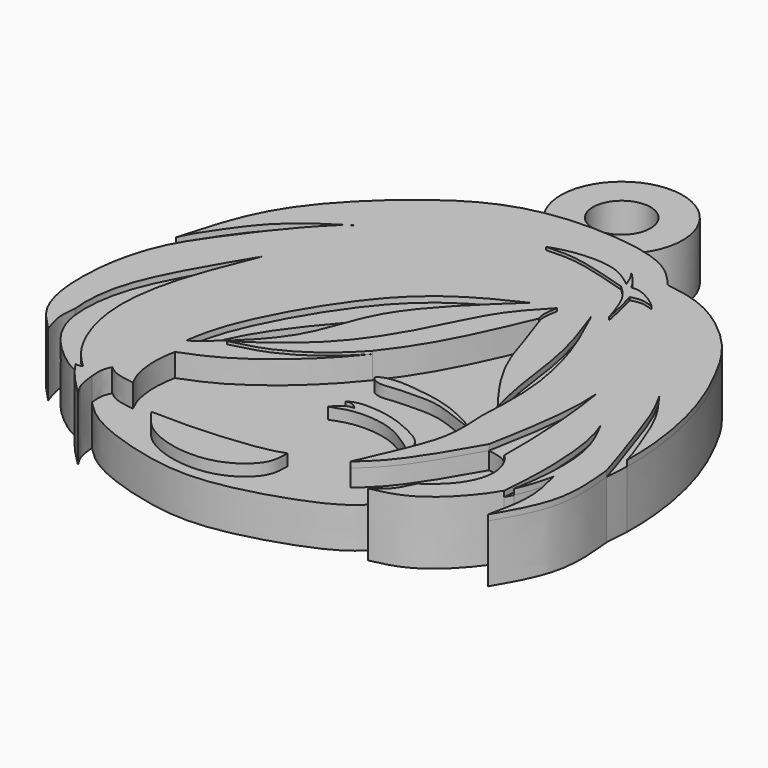
from build123d import *

# Parameters (mm, degrees)
F1_DEPTH  = 3.5
F2_DEPTH  = 5
F3_DEPTH  = 5.75
F4_DEPTH  = 5.5
F5_DEPTH  = 5.75
F6_DEPTH  = 5.5
F7_DEPTH  = 5.5
F8_DEPTH  = 5.5
F9_DEPTH  = 5.5
F11_DEPTH = 4.5
F12_R     = 5.2988832541
F12_R_2   = 2.5
F13_DEPTH = 5


with BuildPart() as f1:
    # F0 (on Top) → F1 (new body)
    with BuildSketch(Plane.XY):
        with BuildLine():
            add(Edge.make_bspline(
                [(-12.1110603213, -10.9907677397), (-12.1413832185, -10.5778725386), (-12.1964164326, -9.8285064787), (-11.9518092827, -9.328371773), (-11.8419788778, -9.1038076207)],
                knots=[0, 0, 0, 0, 0.5509926633, 1, 1, 1, 1], degree=3))
            add(Edge.make_bspline(
                [(-12.1110603213, -10.9907677397), (-11.4748860928, -11.6287734013), (-9.8787594984, -13.2287406102), (-3.1047031725, -15.368989644), (2.4276020196, -15.3486821973), (10.0797579495, -12.8165376875), (11.6481898626, -11.3286238234), (12.1801793575, -10.7554877177)],
                knots=[0, 0, 0, 0, 0.1545510714, 0.3859094209, 0.6040023458, 0.8519726711, 1, 1, 1, 1], degree=3))
            add(Edge.make_bspline(
                [(12.1801793575, -10.7554877177), (12.8132745365, -10.5942263023), (13.6420569676, -10.3477062923), (14.6814271016, -9.7559835883), (14.9906261914, -9.5553366807)],
                knots=[0, 0, 0, 0, 0.1760400927, 0.2497006007, 0.2497006007, 0.2497006007, 0.2497006007], degree=3))
            add(Edge.make_bspline(
                [(14.9906261914, -9.5553366807), (15.6520348931, -9.1261322778), (17.2705069966, -7.807349566), (18.486398897, -5.0831467551), (17.6036991828, -3.1059617964), (17.0047618449, -2.6063665282)],
                knots=[0.2497006007, 0.2497006007, 0.2497006007, 0.2497006007, 0.4072680147, 0.6284827897, 0.8276691525, 0.8276691525, 0.8276691525, 0.8276691525], degree=3))
            add(Edge.make_bspline(
                [(17.0047618449, -2.6063665282), (16.4865768771, -2.1741297289), (15.8331231138, -2.069145763), (15.1746869087, -1.9633669872)],
                knots=[0.8276691525, 0.8276691525, 0.8276691525, 0.8276691525, 1, 1, 1, 1], degree=3))
            add(Edge.make_bspline(
                [(15.1746869087, -1.9633669872), (14.7928351842, -2.6414118966), (13.9104191425, -4.2082968067), (11.5410209813, -7.9679559165), (10.0832064444, -9.2566439256), (9.4371521845, -9.8277470097)],
                knots=[0, 0, 0, 0, 0.2981354866, 0.6889573075, 1, 1, 1, 1], degree=3))
            add(Edge.make_bspline(
                [(12.1801793575, 1.0577354115), (12.2063923463, 0.3896904016), (12.3632008307, -1.5002475705), (11.9735065285, -4.0133734531), (10.565745182, -7.2076516441), (9.7458374849, -9.1060472322), (9.4371521845, -9.8277470097)],
                knots=[0.1587188519, 0.1587188519, 0.1587188519, 0.1587188519, 0.3544281224, 0.5562856519, 0.7906224393, 1, 1, 1, 1], degree=3))
            add(Edge.make_bspline(
                [(12.1801793575, 2.672634786), (12.1711914753, 1.9687710693), (12.1589208066, 1.5995152501), (12.1801793575, 1.0577354115)],
                knots=[0, 0, 0, 0, 0.1587188519, 0.1587188519, 0.1587188519, 0.1587188519], degree=3))
            add(Edge.make_bspline(
                [(6.5886522643, 14.1792679206), (6.9061335426, 13.3116084188), (7.6101751602, 11.3569976928), (8.6905078218, 7.4111331473), (11.6658356551, 3.3504100138), (12.1176316755, 2.8334731505), (12.1801793575, 2.672634786)],
                knots=[0, 0, 0, 0, 0.2478629666, 0.5528856131, 0.8757653389, 1, 1, 1, 1], degree=3))
            add(Edge.make_bspline(
                [(0.7334991878, 3.4119689193), (1.4357383116, 4.2942213089), (3.7857270464, 7.6016154236), (5.4177708345, 11.4315488193), (6.5886522643, 14.1792679206)],
                knots=[0.5844475833, 0.5844475833, 0.5844475833, 0.5844475833, 0.7018691463, 1, 1, 1, 1], degree=3))
            add(Edge.make_bspline(
                [(-9.9287470803, -4.695055075), (-9.0037214767, -4.3369176452), (-6.8364319719, -3.497819257), (-2.8805919766, -0.6357859083), (-0.2637850626, 2.1590389937), (0.7334991878, 3.4119689193)],
                knots=[0, 0, 0, 0, 0.1782758104, 0.4176914578, 0.5844475833, 0.5844475833, 0.5844475833, 0.5844475833], degree=3))
            add(Edge.make_bspline(
                [(-9.3256626278, -9.9980356172), (-9.5138960661, -9.6293840696), (-9.9452786632, -8.7845295984), (-10.2430779945, -6.5362118142), (-10.0305837355, -5.2915514283), (-9.9287470803, -4.695055075)],
                knots=[0, 0, 0, 0, 0.2873137659, 0.6584492087, 1, 1, 1, 1], degree=3))
            add(Edge.make_bspline(
                [(-11.8419788778, -9.1038076207), (-11.6040014961, -9.2942872341), (-11.0456594333, -9.7411901266), (-9.95275037, -9.9043931998), (-9.3256626278, -9.9980356172)],
                knots=[0, 0, 0, 0, 0.4262214824, 1, 1, 1, 1], degree=3))
        make_face()
    extrude(amount=F1_DEPTH)

    # F0 (on Top) → F2 (join)
    with BuildSketch(Plane.XY):
        with BuildLine():
            add(Edge.make_bspline(
                [(17.0047618449, -2.6063665282), (16.4865768771, -2.1741297289), (15.8331231138, -2.069145763), (15.1746869087, -1.9633669872)],
                knots=[0.8276691525, 0.8276691525, 0.8276691525, 0.8276691525, 1, 1, 1, 1], degree=3))
            add(Edge.make_bspline(
                [(17.0047618449, -2.6063665282), (17.0108378366, -2.0439236612), (17.0265740493, -0.587252726), (16.8591893636, 4.3563893658), (16.4464756225, 7.1125414321), (16.2475418766, 8.4410449489)],
                knots=[0, 0, 0, 0, 0.2457372138, 0.6364348774, 1, 1, 1, 1], degree=3))
            add(Edge.make_bspline(
                [(16.2475418766, 8.4410449489), (16.2928123442, 7.8540502), (16.3825444874, 5.7940518929), (15.8544032894, 1.68400026), (15.3904071437, -0.805809303), (15.1746869087, -1.9633669872)],
                knots=[0.1623808206, 0.1623808206, 0.1623808206, 0.1623808206, 0.3159900028, 0.6819913297, 1, 1, 1, 1], degree=3))
        make_face()
        with BuildLine():
            add(Edge.make_bspline(
                [(15.1746869087, -1.9633669872), (14.7928351842, -2.6414118966), (13.9104191425, -4.2082968067), (11.5410209813, -7.9679559165), (10.0832064444, -9.2566439256), (9.4371521845, -9.8277470097)],
                knots=[0, 0, 0, 0, 0.2981354866, 0.6889573075, 1, 1, 1, 1], degree=3))
            add(Edge.make_bspline(
                [(16.2475418766, 8.4410449489), (16.2928123442, 7.8540502), (16.3825444874, 5.7940518929), (15.8544032894, 1.68400026), (15.3904071437, -0.805809303), (15.1746869087, -1.9633669872)],
                knots=[0.1623808206, 0.1623808206, 0.1623808206, 0.1623808206, 0.3159900028, 0.6819913297, 1, 1, 1, 1], degree=3))
            add(Edge.make_bspline(
                [(16.0620845854, 10.2534424514), (16.1308854437, 9.6575008334), (16.199686302, 9.0615592154), (16.2475418766, 8.4410449489)],
                knots=[0, 0, 0, 0, 0.1623808206, 0.1623808206, 0.1623808206, 0.1623808206], degree=3))
            add(Edge.make_bspline(
                [(16.0620845854, 10.2534424514), (16.660759144, 9.5082343813), (17.7239165703, 8.1848551222), (18.2510073881, 7.14902993), (18.4812881052, 6.6964882426)],
                knots=[0, 0, 0, 0, 0.5631099815, 1, 1, 1, 1], degree=3))
            add(Edge.make_bspline(
                [(18.4812881052, 6.6964882426), (18.7876675531, 6.1372008186), (19.094047001, 5.5779133946), (19.3638299189, 4.9411241701)],
                knots=[0, 0, 0, 0, 0.1774570157, 0.1774570157, 0.1774570157, 0.1774570157], degree=3))
            add(Edge.make_bspline(
                [(19.3638299189, 4.9411241701), (19.9211848209, 3.8933674027), (21.0867769477, 1.6795586118), (21.1105851606, -2.9043532755), (20.7544954422, -5.0353931636), (20.5894114646, -6.0046124247)],
                knots=[0, 0, 0, 0, 0.3294860014, 0.6946361721, 1, 1, 1, 1], degree=3))
            add(Edge.make_bspline(
                [(20.5894114646, -6.0046124247), (21.0957081862, -4.9437955373), (21.3350859407, -3.948240442), (21.5744636953, -2.9526853468)],
                knots=[0.738563719, 0.738563719, 0.738563719, 0.738563719, 1, 1, 1, 1], degree=3))
            add(Edge.make_bspline(
                [(21.5744636953, -2.9526853468), (21.8458587584, -3.9986140094), (22.4155160104, -6.1940144743), (21.8634929446, -8.741327372), (21.5744636953, -10.0750541314)],
                knots=[0, 0, 0, 0, 0.4764181657, 1, 1, 1, 1], degree=3))
            add(Edge.make_bspline(
                [(23.8157566637, 0), (23.8378141075, -0.3887315979), (23.868909482, -0.628953591), (24.3805414343, -5.2584971018), (22.5897832375, -8.3347298927), (21.5744636953, -10.0750541314)],
                knots=[0, 0, 0, 0, 0.1634212137, 0.5423165985, 1, 1, 1, 1], degree=3))
            add(Edge.make_bspline(
                [(23.8157566637, 0), (23.4544931667, 1.2921492355), (22.5038133563, 3.9277402407), (21.0862566432, 8.4321982426), (20.1828071321, 10.0516246715), (19.8062434793, 10.7384677976)],
                knots=[0, 0, 0, 0, 0.3523820445, 0.7248126786, 1, 1, 1, 1], degree=3))
            add(Edge.make_bspline(
                [(19.8062434793, 10.7384677976), (20.4092055867, 9.9295494926), (21.7212377167, 8.2021313272), (23.1435840611, 4.3845938491), (23.7663733127, 2.7548679951), (23.9451955364, 2.0321354693)],
                knots=[0, 0, 0, 0, 0.3325623545, 0.70801832, 1, 1, 1, 1], degree=3))
            add(Edge.make_bspline(
                [(16.0620845854, 21.4767409042), (16.8439314772, 20.8853195654), (18.9689674149, 18.9434902255), (20.9730007618, 15.3369882997), (23.0429388934, 10.6887968177), (24.0238504554, 5.2712655107), (23.9451955364, 2.0321354693)],
                knots=[0.2590937562, 0.2590937562, 0.2590937562, 0.2590937562, 0.3577727526, 0.5412328409, 0.7313859928, 0.9542462456, 0.9542462456, 0.9542462456, 0.9542462456], degree=3))
            Line((16.0620845854, 21.4767409042), (11.7352876339, 9.3485459795))
            add(Edge.make_bspline(
                [(11.7352876339, 9.3485459795), (11.937309989, 8.4465658281), (12.4116932102, 5.6169869461), (12.2735935164, 2.897360307), (12.1801793575, 1.0577354115)],
                knots=[0.5046583678, 0.5046583678, 0.5046583678, 0.5046583678, 0.664938273, 1, 1, 1, 1], degree=3))
            add(Edge.make_bspline(
                [(12.1801793575, 1.0577354115), (12.2063923463, 0.3896904016), (12.3632008307, -1.5002475705), (11.9735065285, -4.0133734531), (10.565745182, -7.2076516441), (9.7458374849, -9.1060472322), (9.4371521845, -9.8277470097)],
                knots=[0.1587188519, 0.1587188519, 0.1587188519, 0.1587188519, 0.3544281224, 0.5562856519, 0.7906224393, 1, 1, 1, 1], degree=3))
        make_face()
        with BuildLine():
            add(Edge.make_bspline(
                [(19.3638299189, 4.9411241701), (19.527492868, 4.5548180126), (20.1999450117, 2.6975468748), (20.6072947647, -2.0396244226), (20.3621906046, -5.1691579441), (20.2454291284, -6.6599892452)],
                knots=[0.1774570157, 0.1774570157, 0.1774570157, 0.1774570157, 0.2851107498, 0.6594446861, 1, 1, 1, 1], degree=3))
            add(Edge.make_bspline(
                [(20.2454291284, -6.6599892452), (20.372606898, -6.4384698959), (20.4865209374, -6.2201935337), (20.5894114646, -6.0046124247)],
                knots=[0.6854341694, 0.6854341694, 0.6854341694, 0.6854341694, 0.738563719, 0.738563719, 0.738563719, 0.738563719], degree=3))
            add(Edge.make_bspline(
                [(19.3638299189, 4.9411241701), (19.9211848209, 3.8933674027), (21.0867769477, 1.6795586118), (21.1105851606, -2.9043532755), (20.7544954422, -5.0353931636), (20.5894114646, -6.0046124247)],
                knots=[0, 0, 0, 0, 0.3294860014, 0.6946361721, 1, 1, 1, 1], degree=3))
        make_face()
        with BuildLine():
            add(Edge.make_bspline(
                [(23.8157566637, 0), (23.4544931667, 1.2921492355), (22.5038133563, 3.9277402407), (21.0862566432, 8.4321982426), (20.1828071321, 10.0516246715), (19.8062434793, 10.7384677976)],
                knots=[0, 0, 0, 0, 0.3523820445, 0.7248126786, 1, 1, 1, 1], degree=3))
            add(Edge.make_bspline(
                [(23.9451955364, 2.0321354693), (23.9290474894, 1.3671341587), (23.8872748772, 0.6888199096), (23.8157566637, 0)],
                knots=[0.9542462456, 0.9542462456, 0.9542462456, 0.9542462456, 1, 1, 1, 1], degree=3))
            add(Edge.make_bspline(
                [(19.8062434793, 10.7384677976), (20.4092055867, 9.9295494926), (21.7212377167, 8.2021313272), (23.1435840611, 4.3845938491), (23.7663733127, 2.7548679951), (23.9451955364, 2.0321354693)],
                knots=[0, 0, 0, 0, 0.3325623545, 0.70801832, 1, 1, 1, 1], degree=3))
        make_face()
        with BuildLine():
            add(Edge.make_bspline(
                [(12.1801793575, 2.672634786), (12.1711914753, 1.9687710693), (12.1589208066, 1.5995152501), (12.1801793575, 1.0577354115)],
                knots=[0, 0, 0, 0, 0.1587188519, 0.1587188519, 0.1587188519, 0.1587188519], degree=3))
            add(Edge.make_bspline(
                [(11.7352876339, 9.3485459795), (11.937309989, 8.4465658281), (12.4116932102, 5.6169869461), (12.2735935164, 2.897360307), (12.1801793575, 1.0577354115)],
                knots=[0.5046583678, 0.5046583678, 0.5046583678, 0.5046583678, 0.664938273, 1, 1, 1, 1], degree=3))
            add(Edge.make_bspline(
                [(8.8684875518, 17.0505736023), (9.5764440114, 15.5458266973), (10.6914005156, 13.1760095622), (11.5030918323, 10.3852431517), (11.7352876339, 9.3485459795)],
                knots=[0, 0, 0, 0, 0.3204395419, 0.5046583678, 0.5046583678, 0.5046583678, 0.5046583678], degree=3))
            add(Edge.make_bspline(
                [(8.8684875518, 17.0505736023), (9.505908299, 15.2725782024), (10.7632704557, 11.7653435534), (11.2848989472, 6.3851070818), (11.8999511852, 3.8346610228), (12.1801793575, 2.672634786)],
                knots=[0, 0, 0, 0, 0.3588642548, 0.707887742, 1, 1, 1, 1], degree=3))
        make_face()
    extrude(amount=F2_DEPTH)

    # F0 (on Top) → F3 (join)
    with BuildSketch(Plane.XY):
        with BuildLine():
            add(Edge.make_bspline(
                [(-7.863804698, -1.628117403), (-6.8682231415, -1.3858682059), (-4.7885892415, -0.8831156801), (-1.5743725699, 1.0647330539), (-0.0100322797, 2.6357671951), (0.7334991878, 3.4119689193)],
                knots=[0, 0, 0, 0, 0.3217102615, 0.6708465691, 1, 1, 1, 1], degree=3))
            add(Edge.make_bspline(
                [(0.7334991878, 3.4119689193), (1.4357383116, 4.2942213089), (3.7857270464, 7.6016154236), (5.4177708345, 11.4315488193), (6.5886522643, 14.1792679206)],
                knots=[0.5844475833, 0.5844475833, 0.5844475833, 0.5844475833, 0.7018691463, 1, 1, 1, 1], degree=3))
            add(Edge.make_bspline(
                [(6.5886522643, 14.1792679206), (6.5250988378, 14.3603771625), (6.3673559018, 14.8098997948), (6.5059166095, 15.6462056203), (6.5886522643, 16.1455702037)],
                knots=[0, 0, 0, 0, 0.4028923772, 1, 1, 1, 1], degree=3))
            add(Edge.make_bspline(
                [(6.5886522643, 16.1455702037), (5.6709121541, 15.1844291242), (3.726024086, 13.1475650966), (1.6840196073, 8.4861317867), (-1.2676200724, 3.5338215832), (-4.9474442082, 0.2548404837), (-6.9518865173, -1.0393343852), (-7.863804698, -1.628117403)],
                knots=[0, 0, 0, 0, 0.1874955419, 0.3973432546, 0.6225007227, 0.8282572401, 1, 1, 1, 1], degree=3))
        make_face()
    extrude(amount=F3_DEPTH)



with BuildPart() as f1b:
    # F0 (on Top) → F1, piece 2 (new body)
    with BuildSketch(Plane.XY):
        with BuildLine():
            add(Edge.make_bspline(
                [(-2.4347868748, 8.4410449489), (-3.0170345388, 7.8570093687), (-4.4585662631, 6.4115448907), (-8.1363164186, 1.7628610387), (-9.4330025074, -1.3334946475), (-9.4347120909, -2.0176489631), (-9.4371806186, -2.2408591106)],
                knots=[0, 0, 0, 0, 0.2454000528, 0.6071791178, 0.8711346947, 1, 1, 1, 1], degree=3))
            add(Edge.make_bspline(
                [(-2.4347868748, 8.4410449489), (-3.5783986229, 6.4272173174), (-4.1205798917, 2.7021904995), (-7.7939585552, -0.9365343823), (-9.4371806186, -2.2408591106)],
                knots=[0.310687186, 0.310687186, 0.310687186, 0.310687186, 0.5466284922, 0.763095624, 0.763095624, 0.763095624, 0.763095624], degree=3))
        make_face()
    extrude(amount=F1_DEPTH)

    # F0 (on Top) → F2, piece 4 (join)
    with BuildSketch(Plane.XY):
        with BuildLine():
            add(Edge.make_bspline(
                [(4.3650528252, 15.9829384893), (1.8418105471, 14.7825519027), (-3.5969838732, 12.1617755094), (-9.7134737647, 1.3296068446), (-10.2006218406, -1.7949653414), (-10.3816436604, -2.9526853468)],
                knots=[0, 0, 0, 0, 0.3510848723, 0.7594769237, 1, 1, 1, 1], degree=3))
            add(Edge.make_bspline(
                [(-9.4371806186, -2.2408591106), (-9.7584453641, -2.4958663681), (-10.0753370819, -2.7341804511), (-10.3816436604, -2.9526853468)],
                knots=[0.763095624, 0.763095624, 0.763095624, 0.763095624, 0.8054169022, 0.8054169022, 0.8054169022, 0.8054169022], degree=3))
            add(Edge.make_bspline(
                [(-2.4347868748, 8.4410449489), (-3.0170345388, 7.8570093687), (-4.4585662631, 6.4115448907), (-8.1363164186, 1.7628610387), (-9.4330025074, -1.3334946475), (-9.4347120909, -2.0176489631), (-9.4371806186, -2.2408591106)],
                knots=[0, 0, 0, 0, 0.2454000528, 0.6071791178, 0.8711346947, 1, 1, 1, 1], degree=3))
            add(Edge.make_bspline(
                [(2.5421622404, 14.2720882199), (0.4826693164, 12.2971626259), (-1.3577963873, 10.3375567732), (-2.4347868748, 8.4410449489)],
                knots=[0.0884906733, 0.0884906733, 0.0884906733, 0.0884906733, 0.310687186, 0.310687186, 0.310687186, 0.310687186], degree=3))
            add(Edge.make_bspline(
                [(4.3650528252, 15.9829384893), (3.7479149885, 15.412144925), (3.1359355253, 14.8414798618), (2.5421622404, 14.2720882199)],
                knots=[0.0244291017, 0.0244291017, 0.0244291017, 0.0244291017, 0.0884906733, 0.0884906733, 0.0884906733, 0.0884906733], degree=3))
        make_face()
    extrude(amount=F2_DEPTH)


with BuildPart() as f2:
    # F0 (on Top) → F2, piece 2 (new body)
    with BuildSketch(Plane.XY):
        with BuildLine():
            add(Edge.make_bspline(
                [(-14.0736093745, -10.2901859209), (-14.7517814746, -10.113068629), (-17.3584925209, -8.1602841755), (-18.7703443917, -5.8919672925), (-19.1144721245, -4.5416222422), (-19.1880303356, -3.9759030036)],
                knots=[0.0618794608, 0.0618794608, 0.0618794608, 0.0618794608, 0.2150252545, 0.3549494304, 0.4409832243, 0.4409832243, 0.4409832243, 0.4409832243], degree=3))
            add(Edge.make_bspline(
                [(-13.4743060917, -10.2294050157), (-13.63723841, -10.2956344178), (-13.7995899391, -10.3617512069), (-14.0736093745, -10.2901859209)],
                knots=[0, 0, 0, 0, 0.0618794608, 0.0618794608, 0.0618794608, 0.0618794608], degree=3))
            add(Edge.make_bspline(
                [(-14.0533186495, 9.9428910762), (-15.0012926437, 7.6374360407), (-16.8019249708, 3.2583318762), (-17.4529078194, -2.6942227864), (-16.0766430758, -6.9811737253), (-14.655252919, -9.1013213396), (-13.8371354825, -9.8828170885), (-13.4743060917, -10.2294050157)],
                knots=[0, 0, 0, 0, 0.2690731919, 0.511091961, 0.719152316, 0.8754460062, 1, 1, 1, 1], degree=3))
            add(Edge.make_bspline(
                [(-19.1880303356, -3.9759030036), (-19.220753904, -3.7242335854), (-19.333004949, -2.3473863546), (-19.007025826, 1.1471280018), (-16.2653707408, 6.2665632483), (-14.7514087273, 8.781874616), (-14.0533186495, 9.9428910762)],
                knots=[0.4409832243, 0.4409832243, 0.4409832243, 0.4409832243, 0.4792567589, 0.6422112166, 0.834911142, 1, 1, 1, 1], degree=3))
        make_face()
    extrude(amount=F2_DEPTH)


with BuildPart() as f2b:
    # F0 (on Top) → F2, piece 3 (new body)
    with BuildSketch(Plane.XY):
        with BuildLine():
            add(Edge.make_bspline(
                [(-20.3784322143, 8.504793735), (-20.4293889098, 8.3800041862), (-20.8973073931, 7.142464819), (-21.0674799021, 5.6420856137), (-21.2139285542, 4.2943451076)],
                knots=[0.7329733148, 0.7329733148, 0.7329733148, 0.7329733148, 0.7603795739, 1, 1, 1, 1], degree=3))
            add(Edge.make_bspline(
                [(-21.2139285542, 4.2943451076), (-21.0083200652, 5.1495477235), (-20.3033761575, 7.3107377145), (-18.2459673505, 10.3838878551), (-15.0531603022, 14.7074000793), (-12.7069578024, 16.9590461508)],
                knots=[0.5107249816, 0.5107249816, 0.5107249816, 0.5107249816, 0.6061789197, 0.7667394194, 1, 1, 1, 1], degree=3))
            add(Edge.make_bspline(
                [(-12.7069578024, 16.9590461508), (-12.3729041767, 17.1886223972), (-12.0388505509, 17.4181986436), (-11.7047969252, 17.6477748901)],
                knots=[0, 0, 0, 0, 1.216007278, 1.216007278, 1.216007278, 1.216007278], degree=3))
            add(Edge.make_bspline(
                [(-11.7047969252, 17.6477748901), (-13.2754286087, 16.6666733802), (-16.2753141167, 14.7924741299), (-18.845684395, 11.1737261733), (-20.0205569333, 9.3812064315), (-20.3784322143, 8.504793735)],
                knots=[0, 0, 0, 0, 0.2829415573, 0.5404957103, 0.7329733148, 0.7329733148, 0.7329733148, 0.7329733148], degree=3))
        make_face()
    extrude(amount=F2_DEPTH)


with BuildPart() as f4:
    # F0 (on Top) → F4 (new body)
    with BuildSketch(Plane.XY):
        with BuildLine():
            add(Edge.make_bspline(
                [(-14.1588961706, -5.1290872507), (-13.2745345497, -5.1762376458), (-11.6510730644, -5.262793698), (-10.4675567504, -4.8726655059), (-9.9287470803, -4.695055075)],
                knots=[0, 0, 0, 0, 0.5447382823, 1, 1, 1, 1], degree=3))
            add(Edge.make_bspline(
                [(-9.9287470803, -4.695055075), (-9.0037214767, -4.3369176452), (-6.8364319719, -3.497819257), (-2.8805919766, -0.6357859083), (-0.2637850626, 2.1590389937), (0.7334991878, 3.4119689193)],
                knots=[0, 0, 0, 0, 0.1782758104, 0.4176914578, 0.5844475833, 0.5844475833, 0.5844475833, 0.5844475833], degree=3))
            add(Edge.make_bspline(
                [(-7.863804698, -1.628117403), (-6.8682231415, -1.3858682059), (-4.7885892415, -0.8831156801), (-1.5743725699, 1.0647330539), (-0.0100322797, 2.6357671951), (0.7334991878, 3.4119689193)],
                knots=[0, 0, 0, 0, 0.3217102615, 0.6708465691, 1, 1, 1, 1], degree=3))
            add(Edge.make_bspline(
                [(6.5886522643, 16.1455702037), (5.6709121541, 15.1844291242), (3.726024086, 13.1475650966), (1.6840196073, 8.4861317867), (-1.2676200724, 3.5338215832), (-4.9474442082, 0.2548404837), (-6.9518865173, -1.0393343852), (-7.863804698, -1.628117403)],
                knots=[0, 0, 0, 0, 0.1874955419, 0.3973432546, 0.6225007227, 0.8282572401, 1, 1, 1, 1], degree=3))
            add(Edge.make_bspline(
                [(6.5886522643, 16.1455702037), (5.8547247538, 15.9974252259), (4.3810540764, 15.6901008103), (3.1511739362, 14.7556092249), (2.5421622404, 14.2720882199)],
                knots=[0, 0, 0, 0, 0.4960469431, 1, 1, 1, 1], degree=3))
            add(Edge.make_bspline(
                [(2.5421622404, 14.2720882199), (0.4826693164, 12.2971626259), (-1.3577963873, 10.3375567732), (-2.4347868748, 8.4410449489)],
                knots=[0.0884906733, 0.0884906733, 0.0884906733, 0.0884906733, 0.310687186, 0.310687186, 0.310687186, 0.310687186], degree=3))
            add(Edge.make_bspline(
                [(-2.4347868748, 8.4410449489), (-3.5783986229, 6.4272173174), (-4.1205798917, 2.7021904995), (-7.7939585552, -0.9365343823), (-9.4371806186, -2.2408591106)],
                knots=[0.310687186, 0.310687186, 0.310687186, 0.310687186, 0.5466284922, 0.763095624, 0.763095624, 0.763095624, 0.763095624], degree=3))
            add(Edge.make_bspline(
                [(-9.4371806186, -2.2408591106), (-9.7584453641, -2.4958663681), (-10.0753370819, -2.7341804511), (-10.3816436604, -2.9526853468)],
                knots=[0.763095624, 0.763095624, 0.763095624, 0.763095624, 0.8054169022, 0.8054169022, 0.8054169022, 0.8054169022], degree=3))
            add(Edge.make_bspline(
                [(-10.3816436604, -2.9526853468), (-11.7899679253, -3.9573185094), (-12.9745286867, -4.5431973189), (-14.1588961706, -5.1290872507)],
                knots=[0.8054169022, 0.8054169022, 0.8054169022, 0.8054169022, 1, 1, 1, 1], degree=3))
        make_face()
    extrude(amount=F4_DEPTH)


with BuildPart() as f5:
    # F0 (on Top) → F5 (new body)
    with BuildSketch(Plane.XY):
        with BuildLine():
            add(Edge.make_bspline(
                [(8.0643333495, 21.8424219638), (7.966727825, 22.1109495288), (7.768724286, 22.6556872212), (7.425101395, 23.1530465476), (7.2508668527, 23.4052333981)],
                knots=[0, 0, 0, 0, 0.4929483835, 1, 1, 1, 1], degree=3))
            add(Edge.make_bspline(
                [(8.0643333495, 21.8424219638), (7.3862744374, 22.3608217493), (5.9135121851, 23.4868000706), (2.2478316816, 23.3426843446), (0.9156090815, 22.8923611738), (0.4031534682, 22.7063420689)],
                knots=[0, 0, 0, 0, 0.3281095918, 0.7126628863, 0.9681153491, 0.9681153491, 0.9681153491, 0.9681153491], degree=3))
            add(Edge.make_bspline(
                [(0.4031534682, 22.7063420689), (1.2159986703, 22.7429442812), (3.1643819108, 22.829361234), (6.2230715196, 21.8901026101), (8.0055128783, 21.3424526155)],
                knots=[0, 0, 0, 0, 0.4172497148, 1, 1, 1, 1], degree=3))
            add(Edge.make_bspline(
                [(8.0055128783, 21.3424526155), (8.3792705889, 21.0009668859), (9.2684482274, 20.1885649848), (9.8466770219, 18.3497560199), (10.1818526164, 17.2838736326)],
                knots=[0, 0, 0, 0, 0.4203408795, 1, 1, 1, 1], degree=3))
            add(Edge.make_bspline(
                [(10.1818526164, 17.2838736326), (10.0200211012, 18.0918973386), (9.7483026058, 19.448586025), (9.5186861298, 20.1898031353), (9.4258258292, 20.4895623028)],
                knots=[0, 0, 0, 0, 0.5955852025, 1, 1, 1, 1], degree=3))
            add(Edge.make_bspline(
                [(9.4258258292, 20.4895623028), (9.7213872915, 20.5688024579), (10.346882785, 20.7364980685), (11.0667518744, 20.4921351911), (11.4464657381, 20.3632395715)],
                knots=[0, 0, 0, 0, 0.4725237279, 1, 1, 1, 1], degree=3))
            add(Edge.make_bspline(
                [(8.6395246908, 21.6492395848), (8.8765519948, 21.6748855938), (9.4547530999, 21.7374461109), (10.8924407708, 20.8740866193), (11.2867833012, 20.5104771623), (11.4464657381, 20.3632395715)],
                knots=[0, 0, 0, 0, 0.2924947094, 0.7135075216, 1, 1, 1, 1], degree=3))
            add(Edge.make_bspline(
                [(7.2508668527, 23.4052333981), (7.6134034619, 23.0325271648), (8.24556148, 22.382636291), (8.521734339, 21.8685165469), (8.6395246908, 21.6492395848)],
                knots=[0, 0, 0, 0, 0.5734904863, 1, 1, 1, 1], degree=3))
        make_face()
    extrude(amount=F5_DEPTH)


with BuildPart() as f1_1:
    add(f1.part)

    add(f1b.part)  # F6 merges F1b

    add(f2.part)  # F6 merges F2

    add(f2b.part)  # F6 merges F2b

    add(f4.part)  # F6 merges F4
    # F0 (on Top) → F6 (join)
    with BuildSketch(Plane.XY):
        with BuildLine():
            add(Edge.make_bspline(
                [(-12.1110603213, -10.9907677397), (-12.0551590682, -11.5151630106), (-11.9491919189, -12.5092135694), (-11.4789393574, -13.2172684938), (-11.2567609176, -13.5518005118)],
                knots=[0, 0, 0, 0, 0.5275338022, 1, 1, 1, 1], degree=3))
            add(Edge.make_bspline(
                [(-12.1110603213, -10.9907677397), (-12.1413832185, -10.5778725386), (-12.1964164326, -9.8285064787), (-11.9518092827, -9.328371773), (-11.8419788778, -9.1038076207)],
                knots=[0, 0, 0, 0, 0.5509926633, 1, 1, 1, 1], degree=3))
            add(Edge.make_bspline(
                [(-11.8419788778, -9.1038076207), (-11.6040014961, -9.2942872341), (-11.0456594333, -9.7411901266), (-9.95275037, -9.9043931998), (-9.3256626278, -9.9980356172)],
                knots=[0, 0, 0, 0, 0.4262214824, 1, 1, 1, 1], degree=3))
            add(Edge.make_bspline(
                [(-9.3256626278, -9.9980356172), (-9.5138960661, -9.6293840696), (-9.9452786632, -8.7845295984), (-10.2430779945, -6.5362118142), (-10.0305837355, -5.2915514283), (-9.9287470803, -4.695055075)],
                knots=[0, 0, 0, 0, 0.2873137659, 0.6584492087, 1, 1, 1, 1], degree=3))
            add(Edge.make_bspline(
                [(-14.1588961706, -5.1290872507), (-13.2745345497, -5.1762376458), (-11.6510730644, -5.262793698), (-10.4675567504, -4.8726655059), (-9.9287470803, -4.695055075)],
                knots=[0, 0, 0, 0, 0.5447382823, 1, 1, 1, 1], degree=3))
            add(Edge.make_bspline(
                [(-10.3816436604, -2.9526853468), (-11.7899679253, -3.9573185094), (-12.9745286867, -4.5431973189), (-14.1588961706, -5.1290872507)],
                knots=[0.8054169022, 0.8054169022, 0.8054169022, 0.8054169022, 1, 1, 1, 1], degree=3))
            add(Edge.make_bspline(
                [(4.3650528252, 15.9829384893), (1.8418105471, 14.7825519027), (-3.5969838732, 12.1617755094), (-9.7134737647, 1.3296068446), (-10.2006218406, -1.7949653414), (-10.3816436604, -2.9526853468)],
                knots=[0, 0, 0, 0, 0.3510848723, 0.7594769237, 1, 1, 1, 1], degree=3))
            add(Edge.make_bspline(
                [(5.0725936874, 16.635926624), (4.8364789753, 16.4182875526), (4.6003908386, 16.2006036777), (4.3650528252, 15.9829384893)],
                knots=[0, 0, 0, 0, 0.0244291017, 0.0244291017, 0.0244291017, 0.0244291017], degree=3))
            Line((5.0725936874, 16.635926624), (-6.2486008416, 25.9719226992))
            add(Edge.make_bspline(
                [(-20.3784322143, 8.504793735), (-19.8245028004, 10.4718019967), (-18.737029947, 14.4285732475), (-15.3303307576, 19.4705175655), (-9.94823831, 24.1558077946), (-6.9672653811, 25.671917679), (-6.2486008416, 25.9719226992)],
                knots=[0, 0, 0, 0, 0.1472149579, 0.2954523193, 0.4722957299, 0.5285199845, 0.5285199845, 0.5285199845, 0.5285199845], degree=3))
            add(Edge.make_bspline(
                [(-11.7047969252, 17.6477748901), (-13.2754286087, 16.6666733802), (-16.2753141167, 14.7924741299), (-18.845684395, 11.1737261733), (-20.0205569333, 9.3812064315), (-20.3784322143, 8.504793735)],
                knots=[0, 0, 0, 0, 0.2829415573, 0.5404957103, 0.7329733148, 0.7329733148, 0.7329733148, 0.7329733148], degree=3))
            add(Edge.make_bspline(
                [(-12.7069578024, 16.9590461508), (-12.3729041767, 17.1886223972), (-12.0388505509, 17.4181986436), (-11.7047969252, 17.6477748901)],
                knots=[0, 0, 0, 0, 1.216007278, 1.216007278, 1.216007278, 1.216007278], degree=3))
            add(Edge.make_bspline(
                [(-21.2139285542, 4.2943451076), (-21.0083200652, 5.1495477235), (-20.3033761575, 7.3107377145), (-18.2459673505, 10.3838878551), (-15.0531603022, 14.7074000793), (-12.7069578024, 16.9590461508)],
                knots=[0.5107249816, 0.5107249816, 0.5107249816, 0.5107249816, 0.6061789197, 0.7667394194, 1, 1, 1, 1], degree=3))
            add(Edge.make_bspline(
                [(-18.7803118297, -7.3869999285), (-19.3165969142, -6.7877544456), (-20.6150473312, -5.6519481828), (-21.7986404977, -2.6124844493), (-21.7923782193, 1.3125148322), (-21.3723163823, 3.6355508836), (-21.2139285542, 4.2943451076)],
                knots=[0, 0, 0, 0, 0.123164727, 0.2624866503, 0.4371932805, 0.5107249816, 0.5107249816, 0.5107249816, 0.5107249816], degree=3))
            add(Edge.make_bspline(
                [(-19.1880303356, -3.9759030036), (-19.2507362823, -4.4980040937), (-19.4072553493, -5.5930324173), (-18.9783137215, -6.7837528349), (-18.7803118297, -7.3869999285)],
                knots=[0, 0, 0, 0, 0.4795061912, 1, 1, 1, 1], degree=3))
            add(Edge.make_bspline(
                [(-19.1880303356, -3.9759030036), (-19.220753904, -3.7242335854), (-19.333004949, -2.3473863546), (-19.007025826, 1.1471280018), (-16.2653707408, 6.2665632483), (-14.7514087273, 8.781874616), (-14.0533186495, 9.9428910762)],
                knots=[0.4409832243, 0.4409832243, 0.4409832243, 0.4409832243, 0.4792567589, 0.6422112166, 0.834911142, 1, 1, 1, 1], degree=3))
            add(Edge.make_bspline(
                [(-14.0533186495, 9.9428910762), (-15.0012926437, 7.6374360407), (-16.8019249708, 3.2583318762), (-17.4529078194, -2.6942227864), (-16.0766430758, -6.9811737253), (-14.655252919, -9.1013213396), (-13.8371354825, -9.8828170885), (-13.4743060917, -10.2294050157)],
                knots=[0, 0, 0, 0, 0.2690731919, 0.511091961, 0.719152316, 0.8754460062, 1, 1, 1, 1], degree=3))
            add(Edge.make_bspline(
                [(-13.4743060917, -10.2294050157), (-13.63723841, -10.2956344178), (-13.7995899391, -10.3617512069), (-14.0736093745, -10.2901859209)],
                knots=[0, 0, 0, 0, 0.0618794608, 0.0618794608, 0.0618794608, 0.0618794608], degree=3))
            add(Edge.make_bspline(
                [(-11.2567609176, -13.5518005118), (-11.9253326035, -12.8896063862), (-13.1217167567, -11.70463464), (-13.7822152346, -10.7231781095), (-14.0736093745, -10.2901859209)],
                knots=[0, 0, 0, 0, 0.558826932, 1, 1, 1, 1], degree=3))
        make_face()
    extrude(amount=F6_DEPTH)


    add(f5.part)  # F7 merges F5
    # F0 (on Top) → F7 (join)
    with BuildSketch(Plane.XY):
        with BuildLine():
            add(Edge.make_bspline(
                [(6.5886522643, 14.1792679206), (6.5250988378, 14.3603771625), (6.3673559018, 14.8098997948), (6.5059166095, 15.6462056203), (6.5886522643, 16.1455702037)],
                knots=[0, 0, 0, 0, 0.4028923772, 1, 1, 1, 1], degree=3))
            add(Edge.make_bspline(
                [(6.5886522643, 14.1792679206), (6.9061335426, 13.3116084188), (7.6101751602, 11.3569976928), (8.6905078218, 7.4111331473), (11.6658356551, 3.3504100138), (12.1176316755, 2.8334731505), (12.1801793575, 2.672634786)],
                knots=[0, 0, 0, 0, 0.2478629666, 0.5528856131, 0.8757653389, 1, 1, 1, 1], degree=3))
            add(Edge.make_bspline(
                [(8.8684875518, 17.0505736023), (9.505908299, 15.2725782024), (10.7632704557, 11.7653435534), (11.2848989472, 6.3851070818), (11.8999511852, 3.8346610228), (12.1801793575, 2.672634786)],
                knots=[0, 0, 0, 0, 0.3588642548, 0.707887742, 1, 1, 1, 1], degree=3))
            add(Edge.make_bspline(
                [(8.8684875518, 17.0505736023), (9.5764440114, 15.5458266973), (10.6914005156, 13.1760095622), (11.5030918323, 10.3852431517), (11.7352876339, 9.3485459795)],
                knots=[0, 0, 0, 0, 0.3204395419, 0.5046583678, 0.5046583678, 0.5046583678, 0.5046583678], degree=3))
            Line((11.7352876339, 9.3485459795), (16.0620845854, 21.4767409042))
            add(Edge.make_bspline(
                [(10.046005249, 23.8620694727), (11.2208882284, 23.6820261229), (13.1240028486, 23.391469593), (15.2784430926, 22.0695197535), (16.0620845854, 21.4767409042)],
                knots=[0, 0, 0, 0, 0.1601882583, 0.2590937562, 0.2590937562, 0.2590937562, 0.2590937562], degree=3))
            add(Edge.make_bspline(
                [(-6.2486008416, 25.9719226992), (-5.0578143782, 26.4690140366), (-1.9458210965, 27.2973278366), (3.5901109414, 27.2797043093), (8.0370634991, 26.152849345), (9.4258258292, 24.5692533136), (10.046005249, 23.8620694727)],
                knots=[0.5285199845, 0.5285199845, 0.5285199845, 0.5285199845, 0.6216803919, 0.7722391538, 0.8982869325, 1, 1, 1, 1], degree=3))
            Line((-6.2486008416, 25.9719226992), (5.0725936874, 16.635926624))
            add(Edge.make_bspline(
                [(5.0725936874, 16.635926624), (4.8364789753, 16.4182875526), (4.6003908386, 16.2006036777), (4.3650528252, 15.9829384893)],
                knots=[0, 0, 0, 0, 0.0244291017, 0.0244291017, 0.0244291017, 0.0244291017], degree=3))
            add(Edge.make_bspline(
                [(4.3650528252, 15.9829384893), (3.7479149885, 15.412144925), (3.1359355253, 14.8414798618), (2.5421622404, 14.2720882199)],
                knots=[0.0244291017, 0.0244291017, 0.0244291017, 0.0244291017, 0.0884906733, 0.0884906733, 0.0884906733, 0.0884906733], degree=3))
            add(Edge.make_bspline(
                [(6.5886522643, 16.1455702037), (5.8547247538, 15.9974252259), (4.3810540764, 15.6901008103), (3.1511739362, 14.7556092249), (2.5421622404, 14.2720882199)],
                knots=[0, 0, 0, 0, 0.4960469431, 1, 1, 1, 1], degree=3))
        make_face()
        with BuildLine():
            add(Edge.make_bspline(
                [(8.0643333495, 21.8424219638), (7.3862744374, 22.3608217493), (5.9135121851, 23.4868000706), (2.2478316816, 23.3426843446), (0.9156090815, 22.8923611738), (0.4031534682, 22.7063420689)],
                knots=[0, 0, 0, 0, 0.3281095918, 0.7126628863, 0.9681153491, 0.9681153491, 0.9681153491, 0.9681153491], degree=3))
            add(Edge.make_bspline(
                [(8.0643333495, 21.8424219638), (7.966727825, 22.1109495288), (7.768724286, 22.6556872212), (7.425101395, 23.1530465476), (7.2508668527, 23.4052333981)],
                knots=[0, 0, 0, 0, 0.4929483835, 1, 1, 1, 1], degree=3))
            add(Edge.make_bspline(
                [(7.2508668527, 23.4052333981), (7.6134034619, 23.0325271648), (8.24556148, 22.382636291), (8.521734339, 21.8685165469), (8.6395246908, 21.6492395848)],
                knots=[0, 0, 0, 0, 0.5734904863, 1, 1, 1, 1], degree=3))
            add(Edge.make_bspline(
                [(8.6395246908, 21.6492395848), (8.8765519948, 21.6748855938), (9.4547530999, 21.7374461109), (10.8924407708, 20.8740866193), (11.2867833012, 20.5104771623), (11.4464657381, 20.3632395715)],
                knots=[0, 0, 0, 0, 0.2924947094, 0.7135075216, 1, 1, 1, 1], degree=3))
            add(Edge.make_bspline(
                [(9.4258258292, 20.4895623028), (9.7213872915, 20.5688024579), (10.346882785, 20.7364980685), (11.0667518744, 20.4921351911), (11.4464657381, 20.3632395715)],
                knots=[0, 0, 0, 0, 0.4725237279, 1, 1, 1, 1], degree=3))
            add(Edge.make_bspline(
                [(10.1818526164, 17.2838736326), (10.0200211012, 18.0918973386), (9.7483026058, 19.448586025), (9.5186861298, 20.1898031353), (9.4258258292, 20.4895623028)],
                knots=[0, 0, 0, 0, 0.5955852025, 1, 1, 1, 1], degree=3))
            add(Edge.make_bspline(
                [(8.0055128783, 21.3424526155), (8.3792705889, 21.0009668859), (9.2684482274, 20.1885649848), (9.8466770219, 18.3497560199), (10.1818526164, 17.2838736326)],
                knots=[0, 0, 0, 0, 0.4203408795, 1, 1, 1, 1], degree=3))
            add(Edge.make_bspline(
                [(0.4031534682, 22.7063420689), (1.2159986703, 22.7429442812), (3.1643819108, 22.829361234), (6.2230715196, 21.8901026101), (8.0055128783, 21.3424526155)],
                knots=[0, 0, 0, 0, 0.4172497148, 1, 1, 1, 1], degree=3))
        make_face(mode=Mode.SUBTRACT)
    extrude(amount=F7_DEPTH)

    # F0 (on Top) → F8 (join)
    with BuildSketch(Plane.XY):
        with BuildLine():
            add(Edge.make_bspline(
                [(15.1746869087, -1.9633669872), (14.7928351842, -2.6414118966), (13.9104191425, -4.2082968067), (11.5410209813, -7.9679559165), (10.0832064444, -9.2566439256), (9.4371521845, -9.8277470097)],
                knots=[0, 0, 0, 0, 0.2981354866, 0.6889573075, 1, 1, 1, 1], degree=3))
            add(Edge.make_bspline(
                [(16.2475418766, 8.4410449489), (16.2928123442, 7.8540502), (16.3825444874, 5.7940518929), (15.8544032894, 1.68400026), (15.3904071437, -0.805809303), (15.1746869087, -1.9633669872)],
                knots=[0.1623808206, 0.1623808206, 0.1623808206, 0.1623808206, 0.3159900028, 0.6819913297, 1, 1, 1, 1], degree=3))
            add(Edge.make_bspline(
                [(16.0620845854, 10.2534424514), (16.1308854437, 9.6575008334), (16.199686302, 9.0615592154), (16.2475418766, 8.4410449489)],
                knots=[0, 0, 0, 0, 0.1623808206, 0.1623808206, 0.1623808206, 0.1623808206], degree=3))
            add(Edge.make_bspline(
                [(16.0620845854, 10.2534424514), (16.660759144, 9.5082343813), (17.7239165703, 8.1848551222), (18.2510073881, 7.14902993), (18.4812881052, 6.6964882426)],
                knots=[0, 0, 0, 0, 0.5631099815, 1, 1, 1, 1], degree=3))
            add(Edge.make_bspline(
                [(18.4812881052, 6.6964882426), (18.7876675531, 6.1372008186), (19.094047001, 5.5779133946), (19.3638299189, 4.9411241701)],
                knots=[0, 0, 0, 0, 0.1774570157, 0.1774570157, 0.1774570157, 0.1774570157], degree=3))
            add(Edge.make_bspline(
                [(19.3638299189, 4.9411241701), (19.9211848209, 3.8933674027), (21.0867769477, 1.6795586118), (21.1105851606, -2.9043532755), (20.7544954422, -5.0353931636), (20.5894114646, -6.0046124247)],
                knots=[0, 0, 0, 0, 0.3294860014, 0.6946361721, 1, 1, 1, 1], degree=3))
            add(Edge.make_bspline(
                [(20.5894114646, -6.0046124247), (21.0957081862, -4.9437955373), (21.3350859407, -3.948240442), (21.5744636953, -2.9526853468)],
                knots=[0.738563719, 0.738563719, 0.738563719, 0.738563719, 1, 1, 1, 1], degree=3))
            add(Edge.make_bspline(
                [(21.5744636953, -2.9526853468), (21.8458587584, -3.9986140094), (22.4155160104, -6.1940144743), (21.8634929446, -8.741327372), (21.5744636953, -10.0750541314)],
                knots=[0, 0, 0, 0, 0.4764181657, 1, 1, 1, 1], degree=3))
            add(Edge.make_bspline(
                [(23.8157566637, 0), (23.8378141075, -0.3887315979), (23.868909482, -0.628953591), (24.3805414343, -5.2584971018), (22.5897832375, -8.3347298927), (21.5744636953, -10.0750541314)],
                knots=[0, 0, 0, 0, 0.1634212137, 0.5423165985, 1, 1, 1, 1], degree=3))
            add(Edge.make_bspline(
                [(23.8157566637, 0), (23.4544931667, 1.2921492355), (22.5038133563, 3.9277402407), (21.0862566432, 8.4321982426), (20.1828071321, 10.0516246715), (19.8062434793, 10.7384677976)],
                knots=[0, 0, 0, 0, 0.3523820445, 0.7248126786, 1, 1, 1, 1], degree=3))
            add(Edge.make_bspline(
                [(19.8062434793, 10.7384677976), (20.4092055867, 9.9295494926), (21.7212377167, 8.2021313272), (23.1435840611, 4.3845938491), (23.7663733127, 2.7548679951), (23.9451955364, 2.0321354693)],
                knots=[0, 0, 0, 0, 0.3325623545, 0.70801832, 1, 1, 1, 1], degree=3))
            add(Edge.make_bspline(
                [(16.0620845854, 21.4767409042), (16.8439314772, 20.8853195654), (18.9689674149, 18.9434902255), (20.9730007618, 15.3369882997), (23.0429388934, 10.6887968177), (24.0238504554, 5.2712655107), (23.9451955364, 2.0321354693)],
                knots=[0.2590937562, 0.2590937562, 0.2590937562, 0.2590937562, 0.3577727526, 0.5412328409, 0.7313859928, 0.9542462456, 0.9542462456, 0.9542462456, 0.9542462456], degree=3))
            Line((16.0620845854, 21.4767409042), (11.7352876339, 9.3485459795))
            add(Edge.make_bspline(
                [(11.7352876339, 9.3485459795), (11.937309989, 8.4465658281), (12.4116932102, 5.6169869461), (12.2735935164, 2.897360307), (12.1801793575, 1.0577354115)],
                knots=[0.5046583678, 0.5046583678, 0.5046583678, 0.5046583678, 0.664938273, 1, 1, 1, 1], degree=3))
            add(Edge.make_bspline(
                [(12.1801793575, 1.0577354115), (12.2063923463, 0.3896904016), (12.3632008307, -1.5002475705), (11.9735065285, -4.0133734531), (10.565745182, -7.2076516441), (9.7458374849, -9.1060472322), (9.4371521845, -9.8277470097)],
                knots=[0.1587188519, 0.1587188519, 0.1587188519, 0.1587188519, 0.3544281224, 0.5562856519, 0.7906224393, 1, 1, 1, 1], degree=3))
        make_face()
    extrude(amount=F8_DEPTH)

    # F0 (on Top) → F9 (join)
    with BuildSketch(Plane.XY):
        with BuildLine():
            add(Edge.make_bspline(
                [(14.9906261914, -9.5553366807), (15.6520348931, -9.1261322778), (17.2705069966, -7.807349566), (18.486398897, -5.0831467551), (17.6036991828, -3.1059617964), (17.0047618449, -2.6063665282)],
                knots=[0.2497006007, 0.2497006007, 0.2497006007, 0.2497006007, 0.4072680147, 0.6284827897, 0.8276691525, 0.8276691525, 0.8276691525, 0.8276691525], degree=3))
            add(Edge.make_bspline(
                [(14.9906261914, -9.5553366807), (14.7250658083, -10.122821909), (14.2085289335, -11.2289914506), (13.2816761047, -11.8726685387), (12.8308208659, -12.1859721839)],
                knots=[0, 0, 0, 0, 0.5134003971, 1, 1, 1, 1], degree=3))
            add(Edge.make_bspline(
                [(12.8308208659, -12.1859721839), (13.9261887656, -11.9570672916), (16.4359267906, -11.4325939047), (19.3207831088, -8.2705457545), (20.2454291284, -6.6599892452)],
                knots=[0, 0, 0, 0, 0.2991557601, 0.6854341694, 0.6854341694, 0.6854341694, 0.6854341694], degree=3))
            add(Edge.make_bspline(
                [(19.3638299189, 4.9411241701), (19.527492868, 4.5548180126), (20.1999450117, 2.6975468748), (20.6072947647, -2.0396244226), (20.3621906046, -5.1691579441), (20.2454291284, -6.6599892452)],
                knots=[0.1774570157, 0.1774570157, 0.1774570157, 0.1774570157, 0.2851107498, 0.6594446861, 1, 1, 1, 1], degree=3))
            add(Edge.make_bspline(
                [(18.4812881052, 6.6964882426), (18.7876675531, 6.1372008186), (19.094047001, 5.5779133946), (19.3638299189, 4.9411241701)],
                knots=[0, 0, 0, 0, 0.1774570157, 0.1774570157, 0.1774570157, 0.1774570157], degree=3))
            add(Edge.make_bspline(
                [(16.0620845854, 10.2534424514), (16.660759144, 9.5082343813), (17.7239165703, 8.1848551222), (18.2510073881, 7.14902993), (18.4812881052, 6.6964882426)],
                knots=[0, 0, 0, 0, 0.5631099815, 1, 1, 1, 1], degree=3))
            add(Edge.make_bspline(
                [(16.0620845854, 10.2534424514), (16.1308854437, 9.6575008334), (16.199686302, 9.0615592154), (16.2475418766, 8.4410449489)],
                knots=[0, 0, 0, 0, 0.1623808206, 0.1623808206, 0.1623808206, 0.1623808206], degree=3))
            add(Edge.make_bspline(
                [(17.0047618449, -2.6063665282), (17.0108378366, -2.0439236612), (17.0265740493, -0.587252726), (16.8591893636, 4.3563893658), (16.4464756225, 7.1125414321), (16.2475418766, 8.4410449489)],
                knots=[0, 0, 0, 0, 0.2457372138, 0.6364348774, 1, 1, 1, 1], degree=3))
        make_face()
    extrude(amount=F9_DEPTH)

    # F10 (on Top) → F11 (join)
    with BuildSketch(Plane.XY):
        with BuildLine():
            add(Edge.make_bspline(
                [(-6.8766884506, -11.0576767474), (-5.6995090616, -11.0860133673), (-3.1380869342, -11.1476709583), (2.2025933817, -10.6949522563), (3.6114644061, -10.2343916698), (4.1438997723, -10.0603383034)],
                knots=[0, 0, 0, 0, 0.3459900204, 0.7528389491, 1, 1, 1, 1], degree=3))
            add(Edge.make_bspline(
                [(-6.8766884506, -11.0576767474), (-6.38665589, -11.7582595476), (-5.3180291718, -13.2860386358), (-1.6828703006, -14.4808259688), (1.7780785012, -14.0450857063), (4.1329536927, -12.0204172902), (4.1405196927, -10.6655982072), (4.1438997723, -10.0603383034)],
                knots=[0, 0, 0, 0, 0.1922243909, 0.4191887162, 0.6409137425, 0.839579678, 1, 1, 1, 1], degree=3))
        make_face()
        with BuildLine():
            add(Edge.make_bspline(
                [(3.5254866816, -2.0180463325), (3.3399979318, -1.8476184417), (2.9930344386, -1.5288268362), (2.6123837017, -1.6051362597), (2.4352311157, -1.6406502109)],
                knots=[0, 0, 0, 0, 0.5346059554, 1, 1, 1, 1], degree=3))
            add(Edge.make_bspline(
                [(3.5254866816, -2.0180463325), (3.2655697737, -2.0543335857), (2.7022483802, -2.1329794351), (2.2561631416, -2.6851205), (2.0159019623, -2.9825032689)],
                knots=[0, 0, 0, 0, 0.4614007401, 1, 1, 1, 1], degree=3))
            add(Edge.make_bspline(
                [(2.0159019623, -2.9825032689), (2.5166853729, -2.7933143664), (3.5602943434, -2.399053631), (5.5205052924, -2.3621796593), (7.7261118353, -2.8345058247), (9.3020821671, -3.9799785355), (10.1508861408, -4.5969202183)],
                knots=[0, 0, 0, 0, 0.2169253602, 0.452062203, 0.7048854474, 1, 1, 1, 1], degree=3))
            add(Edge.make_bspline(
                [(10.1508861408, -4.5969202183), (10.283673803, -4.666808527), (10.4164614653, -4.7366968356), (10.5492491275, -4.8065851443)],
                knots=[0, 0, 0, 0, 0.4501693574, 0.4501693574, 0.4501693574, 0.4501693574], degree=3))
            add(Edge.make_bspline(
                [(2.4352311157, -1.6406502109), (2.6692507338, -1.5081728962), (3.2674080441, -1.1695590873), (5.5247748147, -1.2736711757), (7.2361208495, -1.7864471124), (9.0385952687, -2.6126034232), (10.0130863604, -3.367032958), (10.3637365988, -4.3084995206), (10.5492491275, -4.8065851443)],
                knots=[0, 0, 0, 0, 0.1261085679, 0.3223352059, 0.5066221652, 0.6914054983, 0.8367371812, 1, 1, 1, 1], degree=3))
        make_face()
        with BuildLine():
            add(Edge.make_bspline(
                [(11.5085607395, 0.4986396525), (11.5967339133, 0.5530453629), (8.4719169597, 2.3526409719), (5.3659988869, 2.7209685439), (3.0237233229, 3.0297592348), (1.3886129879, 2.3703438465), (2.6378636836, 1.7146136137), (3.6827835101, 1.9748929351), (6.1631606601, 2.0057202074), (8.0113336896, 1.9799148459), (11.4153467147, 0.4411235735), (11.5085607395, 0.4986396525)],
                knots=[0, 0, 0, 0, 0.1318667976, 0.2782210086, 0.3962251635, 0.4764645075, 0.5461673113, 0.6281593541, 0.7430749822, 0.8605943917, 1, 1, 1, 1], degree=3))
        make_face()
    extrude(amount=F11_DEPTH)

    # F12 (on Top) → F13 (join)
    with BuildSketch(Plane.XY):
        with Locations((0.8281652676, 30.3797461092)):
            Circle(F12_R)
        with Locations((0.8281652676, 30.3797461092)):
            Circle(F12_R_2, mode=Mode.SUBTRACT)
    extrude(amount=F13_DEPTH)


solid = f1_1.part
